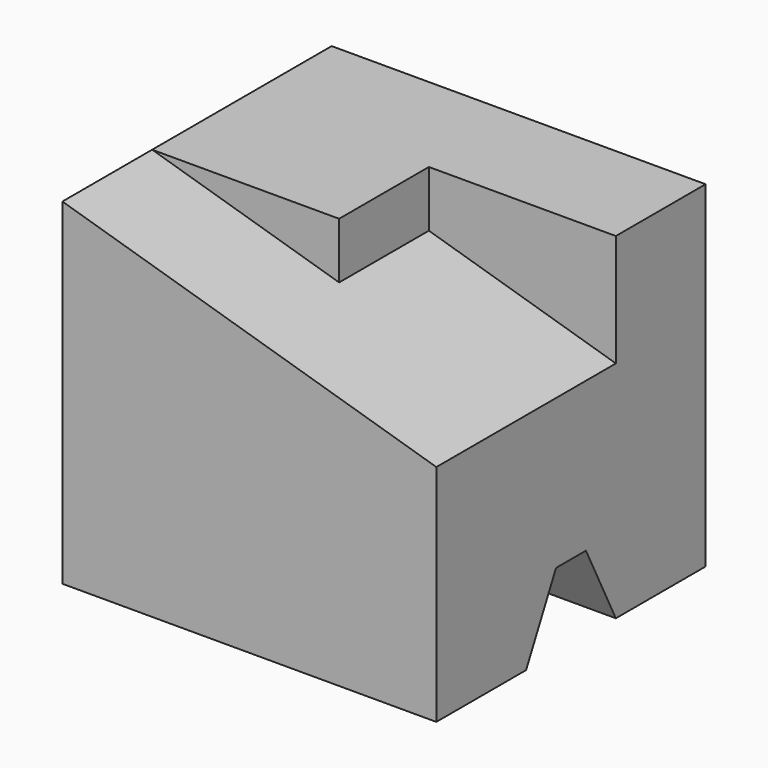
from build123d import *

# Parameters (mm, degrees)
F1_DEPTH = 10
F3_DEPTH = 3
F4_DEPTH = 6


with BuildPart() as f1:
    # F0 (on Right) → F1 (new body)
    with BuildSketch(Plane.YZ):
        Polygon((0, 9), (0, 0), (3, 0), (4, 2), (4.5, 2), (5, 2), (6, 0), (9, 0), (9, 9), align=None)
    extrude(amount=F1_DEPTH)

    # F2 (on face) → F3 (cut)
    with BuildSketch(Plane.XZ):
        Polygon((5, 9), (0, 9), (5, 7.5), align=None)
        Polygon((5, 9), (5, 7.5), (10, 6), (10, 9), align=None)
    extrude(amount=-F3_DEPTH, mode=Mode.SUBTRACT)

    # F2 (on face) → F4 (cut)
    with BuildSketch(Plane.XZ):
        Polygon((5, 9), (5, 7.5), (10, 6), (10, 9), align=None)
    extrude(amount=-F4_DEPTH, mode=Mode.SUBTRACT)


solid = f1.part
